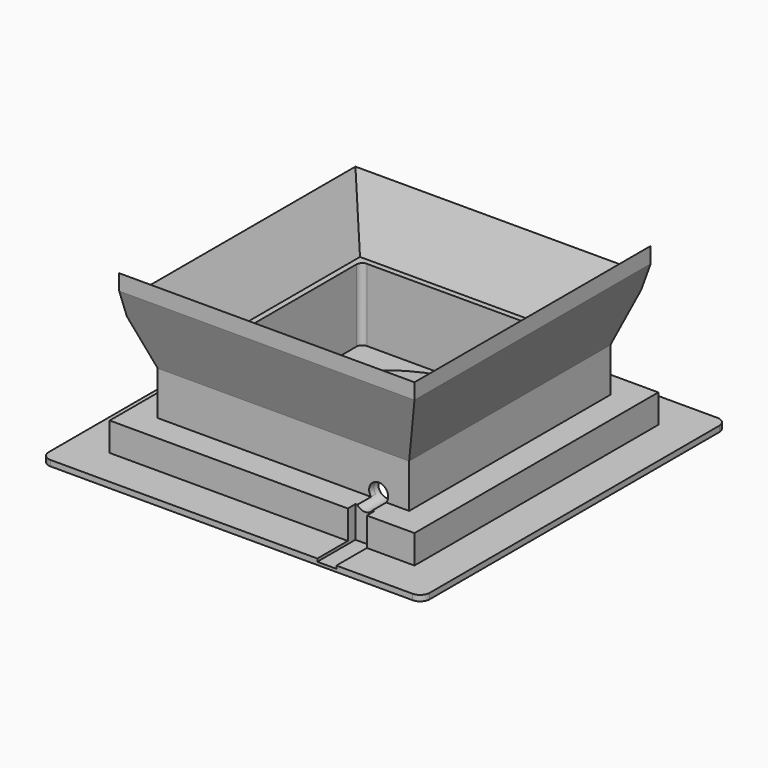
from build123d import *

# Parameters (mm, degrees)
SKETCH_W             = 200
SKETCH_H             = 200
PAD_DEPTH            = 3
FILLET_R             = 5
SKETCH001_W          = 160
SKETCH001_H          = 160
PAD001_DEPTH         = 15
SKETCH002_W          = 126
SKETCH002_H          = 126
PAD002_DEPTH         = 41
SKETCH004_R          = 62.5
PAD003_DEPTH         = 20
SKETCH005_R          = 61
POCKET001_DEPTH      = 23
SKETCH006_R          = 5
POCKET002_DEPTH      = 5
POCKET002_DEPTH_BACK = 20
SKETCH007_W          = 10
SKETCH007_H          = 20
POCKET003_DEPTH      = 25
SKETCH003_W          = 120
SKETCH003_H          = 120
POCKET_DEPTH         = 38
FILLET001_R          = 3
SKETCH008_W          = 132
SKETCH008_H          = 132
PAD004_DEPTH         = 23
SKETCH009_W          = 126
SKETCH009_H          = 126
POCKET004_DEPTH      = 23
SKETCH010_W          = 132
SKETCH010_H          = 132
PAD005_DEPTH         = 55
PAD005_TAPER         = -20
SKETCH011_W          = 126
SKETCH011_H          = 126
POCKET005_DEPTH      = 55
POCKET005_TAPER      = -20
SKETCH012_R          = 5
POCKET006_DEPTH      = 5
SKETCH013_W          = 80
SKETCH013_H          = 200
POCKET007_DEPTH      = 78.001
SKETCH014_W          = 200
SKETCH014_H          = 80
POCKET008_DEPTH      = 78.001
SKETCH015_W          = 80
SKETCH015_H          = 200
POCKET009_DEPTH      = 78.001
SKETCH016_W          = 200
SKETCH016_H          = 80
POCKET010_DEPTH      = 78.001


with BuildPart() as body:
    # Sketch → Pad (new body)
    with BuildSketch(Plane.XY):
        Rectangle(SKETCH_W, SKETCH_H)
    extrude(amount=PAD_DEPTH)

    # Fillet
    fillet_edges = [body.edges().sort_by_distance(p)[0] for p in [
        (100, 100, 1.5),
        (100, -100, 1.5),
        (-100, 100, 1.5),
        (-100, -100, 1.5),
    ]]
    fillet(fillet_edges, radius=FILLET_R)

    # Sketch001 (on Face5 of Fillet) → Pad001 (join)
    with BuildSketch(Plane.XY.offset(3)):
        Rectangle(SKETCH001_W, SKETCH001_H)
    extrude(amount=PAD001_DEPTH)

    # Sketch002 (on Face2 of Pad001) → Pad002 (join)
    with BuildSketch(Plane(origin=(0, 0, 0), x_dir=(1, 0, 0), z_dir=(0, 0, -1))):
        Rectangle(SKETCH002_W, SKETCH002_H)
    extrude(amount=-PAD002_DEPTH)

    # Sketch004 → Pad003 (join)
    with BuildSketch(Plane(origin=(0, 0, 0), x_dir=(1, 0, 0), z_dir=(0, 0, -1))):
        Circle(SKETCH004_R)
    extrude(amount=PAD003_DEPTH)

    # Sketch005 (on Face16 of Pad003) → Pocket001 (cut)
    with BuildSketch(Plane(origin=(0, 0, -20), x_dir=(1, 0, 0), z_dir=(0, 0, -1))):
        Circle(SKETCH005_R)
    extrude(amount=-POCKET001_DEPTH, mode=Mode.SUBTRACT)

    # Sketch006 (on Face20 of Pocket001) → Pocket002 (cut, two sides)
    with BuildSketch(Plane.XZ.offset(63)) as pocket002_sk:
        with Locations((50, 21)):
            Circle(SKETCH006_R)
    extrude(amount=-POCKET002_DEPTH, mode=Mode.SUBTRACT)
    extrude(pocket002_sk.sketch, amount=POCKET002_DEPTH_BACK, mode=Mode.SUBTRACT)

    # Sketch007 (on Face7 of Pocket002) → Pocket003 (cut)
    with BuildSketch(Plane.XZ.offset(100)):
        with Locations((50, 11.5)):
            Rectangle(SKETCH007_W, SKETCH007_H)
    extrude(amount=-POCKET003_DEPTH, mode=Mode.SUBTRACT)

    # Sketch003 → Pocket (cut)
    with BuildSketch(Plane.XY.offset(41)):
        Rectangle(SKETCH003_W, SKETCH003_H)
    extrude(amount=-POCKET_DEPTH, mode=Mode.SUBTRACT)

    # Fillet001
    fillet001_edges = [body.edges().sort_by_distance(p)[0] for p in [
        (60, 60, 22),
        (-60, 60, 22),
        (-60, -60, 22),
        (60, -60, 22),
    ]]
    fillet(fillet001_edges, radius=FILLET001_R)


with BuildPart() as tpugasket:
    # Sketch008 (on Face1 of CopyFillet001) → Pad004 (new body)
    with BuildSketch(Plane.XY.offset(18)):
        Rectangle(SKETCH008_W, SKETCH008_H)
    extrude(amount=PAD004_DEPTH)

    # Sketch009 (on Face6 of Pad004) → Pocket004 (cut)
    with BuildSketch(Plane.XY.offset(41)):
        Rectangle(SKETCH009_W, SKETCH009_H)
    extrude(amount=-POCKET004_DEPTH, mode=Mode.SUBTRACT)

    # Sketch010 (on Face5 of Pocket004) → Pad005 (join)
    with BuildSketch(Plane.XY.offset(41)):
        Rectangle(SKETCH010_W, SKETCH010_H)
    extrude(amount=PAD005_DEPTH, taper=PAD005_TAPER)

    # Sketch011 (on Face15 of Pad005) → Pocket005 (cut)
    with BuildSketch(Plane(origin=(0, 0, 41), x_dir=(1, 0, 0), z_dir=(0, 0, -1))):
        Rectangle(SKETCH011_W, SKETCH011_H)
    extrude(amount=-POCKET005_DEPTH, taper=POCKET005_TAPER, mode=Mode.SUBTRACT)

    # Sketch012 (on Face3 of Pocket005) → Pocket006 (cut)
    with BuildSketch(Plane.XZ.offset(66)):
        with Locations((50, 21)):
            Circle(SKETCH012_R)
    extrude(amount=-POCKET006_DEPTH, mode=Mode.SUBTRACT)

    # Sketch013 (on Face4 of Pocket006) → Pocket007 (cut, through all)
    with BuildSketch(Plane(origin=(0, 0, 18), x_dir=(1, 0, 0), z_dir=(0, 0, -1))):
        with Locations((120, 0)):
            Rectangle(SKETCH013_W, SKETCH013_H)
    extrude(amount=-POCKET007_DEPTH, mode=Mode.SUBTRACT)

    # Sketch014 (on Face4 of Pocket007) → Pocket008 (cut, through all)
    with BuildSketch(Plane(origin=(0, 0, 18), x_dir=(1, 0, 0), z_dir=(0, 0, -1))):
        with Locations((0, 120)):
            Rectangle(SKETCH014_W, SKETCH014_H)
    extrude(amount=-POCKET008_DEPTH, mode=Mode.SUBTRACT)

    # Sketch015 (on Face4 of Pocket008) → Pocket009 (cut, through all)
    with BuildSketch(Plane(origin=(0, 0, 18), x_dir=(1, 0, 0), z_dir=(0, 0, -1))):
        with Locations((-115, 0)):
            Rectangle(SKETCH015_W, SKETCH015_H)
    extrude(amount=-POCKET009_DEPTH, mode=Mode.SUBTRACT)

    # Sketch016 (on Face4 of Pocket009) → Pocket010 (cut, through all)
    with BuildSketch(Plane(origin=(0, 0, 18), x_dir=(1, 0, 0), z_dir=(0, 0, -1))):
        with Locations((0, -115)):
            Rectangle(SKETCH016_W, SKETCH016_H)
    extrude(amount=-POCKET010_DEPTH, mode=Mode.SUBTRACT)


solid = Compound([body.part, tpugasket.part])
